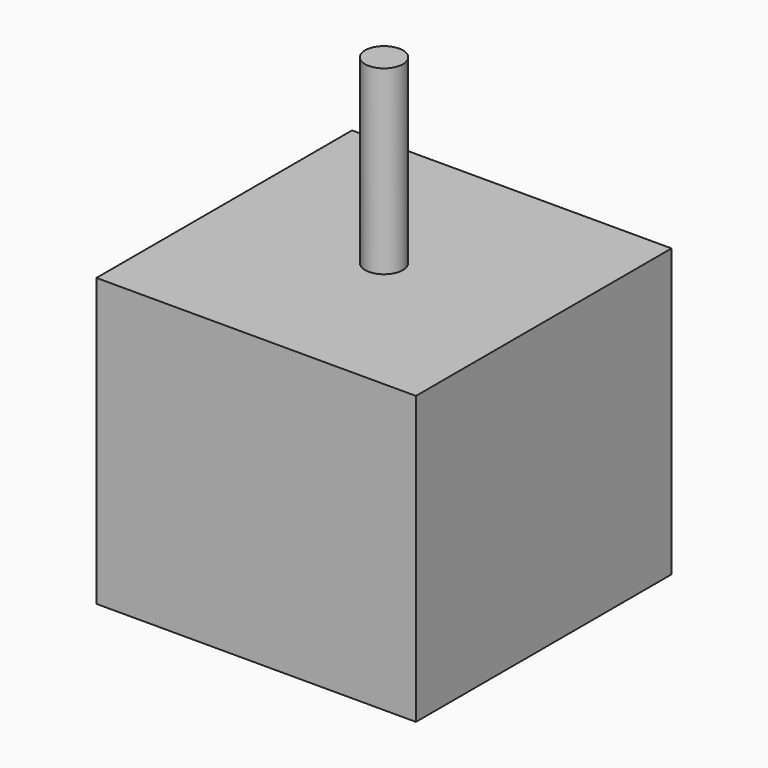
from build123d import *

# Parameters (mm, degrees)
CYLINDER_R     = 2.5
CYLINDER_DEPTH = 24
BOX_W          = 42.3
BOX_H          = 42.3
BOX_DEPTH      = 38


with BuildPart() as rotor:
    # Cylinder → Cylinder (new body)
    with BuildSketch(Plane(origin=(21.15, 21.15, 38), x_dir=(1, 0, 0), z_dir=(0, 0, 1))):
        Circle(CYLINDER_R)
    extrude(amount=CYLINDER_DEPTH)


with BuildPart() as obj1:
    # Box → Box (new body)
    with BuildSketch(Plane.XY):
        with Locations((21.15, 21.15)):
            Rectangle(BOX_W, BOX_H)
    extrude(amount=BOX_DEPTH)

    # Fusion: union Rotor
    add(rotor.part)


solid = obj1.part
